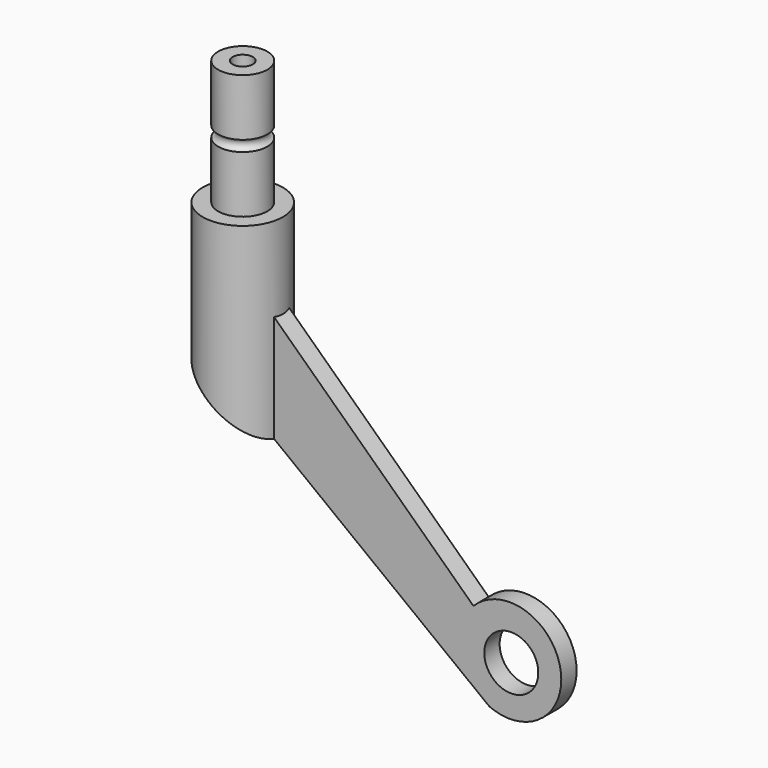
from build123d import *

# Parameters (mm, degrees)
SKETCH_R        = 5.130877
PAD_DEPTH       = 26
SKETCH002_R     = 1.142124
SKETCH003_R     = 8.361882
PAD001_DEPTH    = 40
PAD002_DEPTH    = 2
POCKET_DEPTH    = 10.5
SKETCH007_R     = 5.632133
POCKET001_DEPTH = 5


with BuildPart() as part:
    # Sketch → Pad (new body)
    with BuildSketch(Plane.XY):
        Circle(SKETCH_R)
    extrude(amount=PAD_DEPTH)

    # Sketch002 (on DatumPlane) → Groove (revolve, cut)
    with BuildSketch(Plane(origin=(0, 0, 13), x_dir=(1, 0, 0), z_dir=(0, -1, 0))):
        with Locations((5.337208, 0)):
            Circle(SKETCH002_R)
    revolve(axis=Axis((0, 0, 13), (0, 0, 1)), mode=Mode.SUBTRACT)

    # Sketch003 (on Face2 of Groove) → Pad001 (join)
    with BuildSketch(Plane(origin=(0, 0, 0), x_dir=(1, 0, 0), z_dir=(0, 0, -1))):
        Circle(SKETCH003_R)
    extrude(amount=PAD001_DEPTH)

    # Sketch004 (on DatumPlane) → Groove001 (revolve, cut)
    with BuildSketch(Plane(origin=(0, 0, 13), x_dir=(1, 0, 0), z_dir=(0, -1, 0))):
        Polygon((-2.098671, 66.083956), (-2.098671, -33.279097), (0, -36.189228), (0, -33.279097), (0, 66.139438), (0, 66.083956), align=None)
    revolve(axis=Axis((0, 0, 13), (0, 0, 1)), mode=Mode.SUBTRACT)

    # Sketch005 (on DatumPlane) → Pad002 (join, symmetric)
    with BuildSketch(Plane(origin=(0, 0, 13), x_dir=(1, 0, 0), z_dir=(0, -1, 0))):
        with BuildLine():
            Line((7.000219, -29.542121), (49.71245, -70.147492))
            ThreePointArc((50.443017, -85.924472), (68.024657, -77.204934), (49.71245, -70.147492))
            Line((7.000219, -52.373556), (50.443017, -85.924472))
            Line((7.000219, -29.542121), (7.000219, -52.373556))
        make_face()
    extrude(amount=PAD002_DEPTH, both=True)

    # Sketch006 (on DatumPlane) → Pocket (cut, symmetric)
    with BuildSketch(Plane(origin=(0, 0, 13), x_dir=(1, 0, 0), z_dir=(0, -1, 0))):
        Polygon((-10.626366, -38.553432), (62.605824, -94.891693), (-10.165777, -94.891693), align=None)
    extrude(amount=POCKET_DEPTH, both=True, mode=Mode.SUBTRACT)

    # Sketch007 (on Face3 of Pocket) → Pocket001 (cut)
    with BuildSketch(Plane(origin=(0, 2, 0), x_dir=(-1, 0, 0), z_dir=(0, 1, 0))):
        with Locations((-57.609379, -65.024849)):
            Circle(SKETCH007_R)
    extrude(amount=-POCKET001_DEPTH, mode=Mode.SUBTRACT)


solid = part.part
